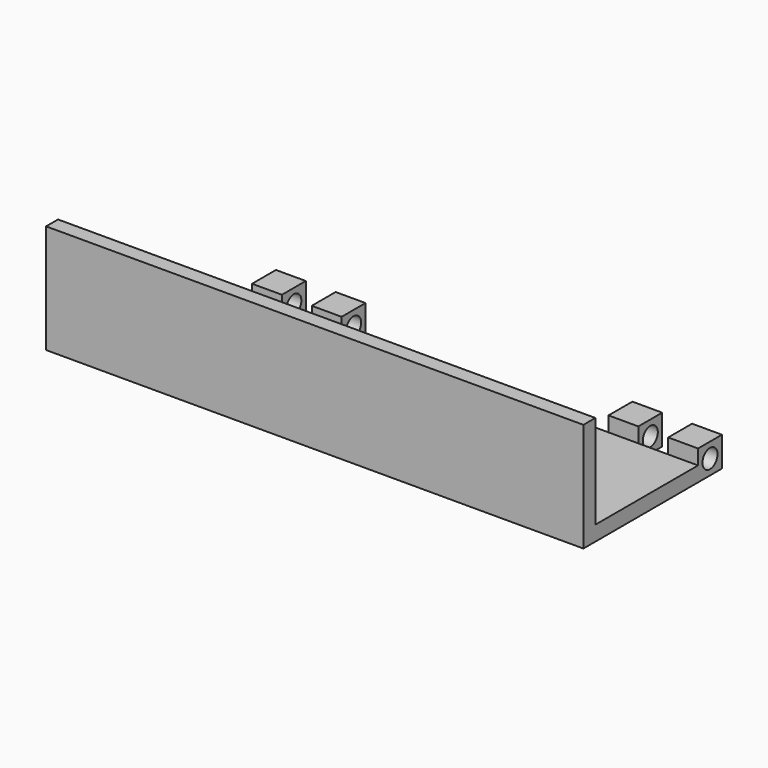
from build123d import *

# Parameters (mm, degrees)
F0_W     = 28.575
F0_H     = 7.62
F1_DEPTH = 0.79375
F2_W     = 28.575
F2_H     = 0.79375
F3_DEPTH = 4.998339
F4_W     = 1.5875
F4_H     = 0.79375
F5_DEPTH = 1.5875
F6_W     = 1.5875
F6_H     = 1.5875
F7_DEPTH = 0.79375
F8_R     = 0.5
F9_DEPTH = 25.4


with BuildPart() as f1:
    # F0 (on Top) → F1 (new body)
    with BuildSketch(Plane.XY):
        with Locations((4.937336, 8.494605)):
            Rectangle(F0_W, F0_H)
    extrude(amount=F1_DEPTH)

    # F2 (on face) → F3 (join)
    with BuildSketch(Plane.XY.offset(0.79375)):
        with Locations((4.937336, 5.08148)):
            Rectangle(F2_W, F2_H)
    extrude(amount=F3_DEPTH)

    # F4 (on face) → F5 (join)
    with BuildSketch(Plane(origin=(0, 12.304605, 0), x_dir=(-1, 0, 0), z_dir=(0, 1, 0))):
        with Locations((-18.431086, 0.396875)):
            Rectangle(F4_W, F4_H)
        with Locations((-15.256086, 0.396875)):
            Rectangle(F4_W, F4_H)
        with Locations((0.523664, 0.396875)):
            Rectangle(F4_W, F4_H)
        with Locations((3.698664, 0.396875)):
            Rectangle(F4_W, F4_H)
    extrude(amount=F5_DEPTH)

    # F6 (on face) → F7 (join)
    with BuildSketch(Plane.XY.offset(0.79375)):
        with Locations((-3.698664, 13.098355)):
            Rectangle(F6_W, F6_H)
        with Locations((-0.523664, 13.098355)):
            Rectangle(F6_W, F6_H)
        with Locations((15.256086, 13.098355)):
            Rectangle(F6_W, F6_H)
        with Locations((18.431086, 13.098355)):
            Rectangle(F6_W, F6_H)
    extrude(amount=F7_DEPTH)

    # F8 (on face) → F9 (cut)
    with BuildSketch(Plane.YZ.offset(19.224836)):
        with Locations((13.098355, 0.79375)):
            Circle(F8_R)
    extrude(amount=-F9_DEPTH, mode=Mode.SUBTRACT)


solid = f1.part
